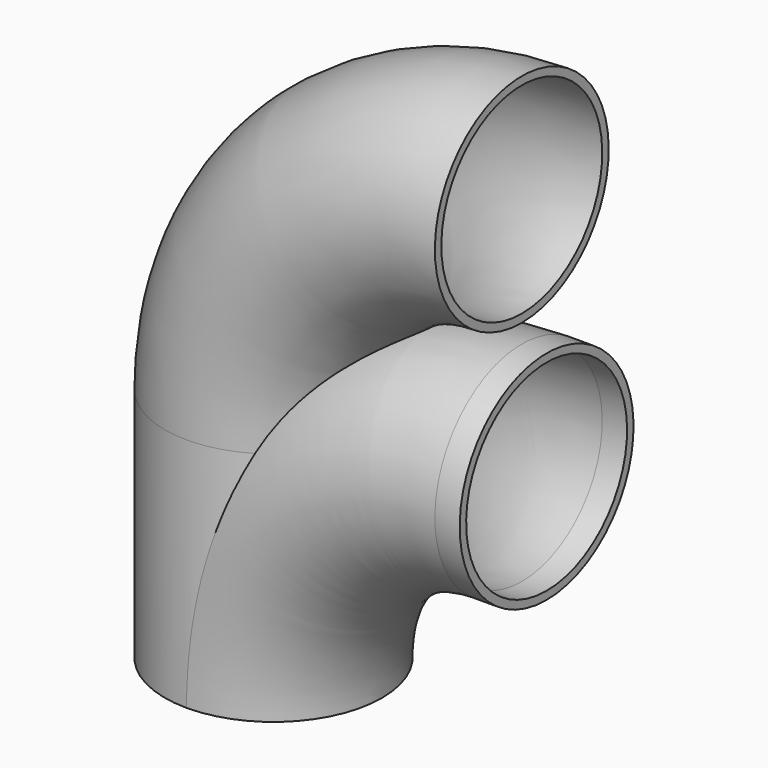
from build123d import *

# Parameters (mm, degrees)
F1_R   = 22.225
F1_R_2 = 20.574


with BuildPart() as f2:
    # F2: sweep along a path in F0
    with BuildLine(Plane.XZ) as f2_path:
        ThreePointArc((0, 0), (14.8789755157, 35.9210244843), (50.8, 50.8))
        Line((50.8, 50.8), (55.88, 50.8))
    # F1 (on Top) → F2 (sweep)
    with BuildSketch(Plane.XY):
        Circle(F1_R)
        Circle(F1_R_2, mode=Mode.SUBTRACT)
    sweep(path=f2_path.line)

    # F3: sweep along a path in F0
    with BuildLine(Plane.XZ) as f3_path:
        Line((0, 0), (0, 48.26))
        ThreePointArc((0, 48.26), (14.8789755157, 84.1810244843), (50.8, 99.06))
    # F1 (on Top) → F3 (sweep)
    with BuildSketch(Plane.XY):
        Circle(F1_R)
        Circle(F1_R_2, mode=Mode.SUBTRACT)
    sweep(path=f3_path.line)


solid = f2.part
